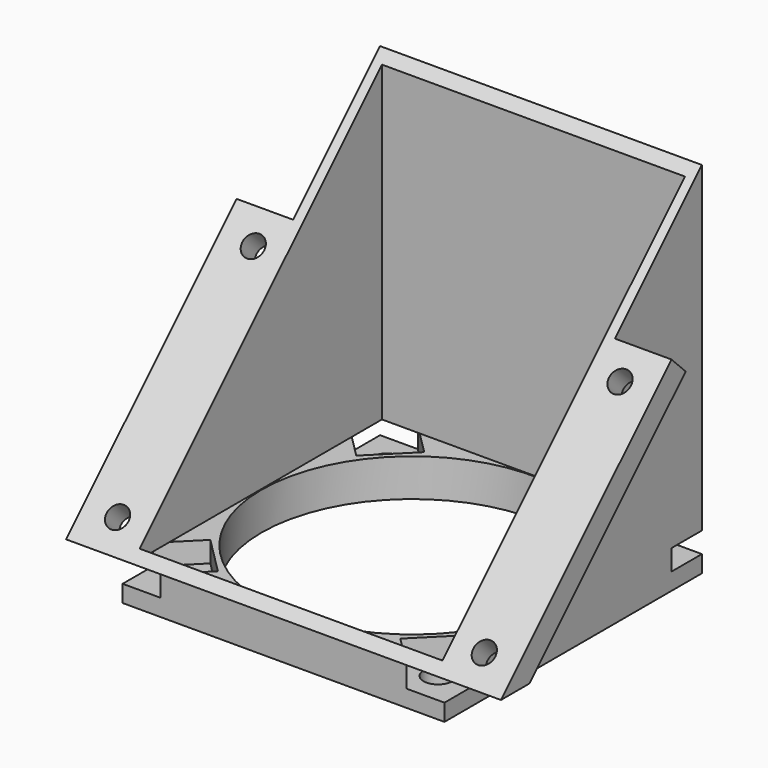
from build123d import *

# Parameters (mm, degrees)
F0_W      = 51.25
F0_H      = 51.25
F0_R      = 2.3
F0_R_2    = 24
F1_DEPTH  = 6
F3_DEPTH  = 3.3
F4_W      = 51.25
F4_H      = 51.25
F4_W_2    = 48.25
F4_H_2    = 48.25
F5_DEPTH  = 55
F7_DEPTH  = 51.251
F9_DEPTH  = 9
F11_DEPTH = 9
F12_R     = 1.75
F13_DEPTH = 40.482863


with BuildPart() as f1:
    # F0 (on Top) → F1 (new body)
    with BuildSketch(Plane.XY):
        Rectangle(F0_W, F0_H)
        with Locations((-20.5, -20.5)):
            Circle(F0_R, mode=Mode.SUBTRACT)
        with Locations((20.5, -20.5)):
            Circle(F0_R, mode=Mode.SUBTRACT)
        with Locations((-20.5, 20.5)):
            Circle(F0_R, mode=Mode.SUBTRACT)
        Circle(F0_R_2, mode=Mode.SUBTRACT)
        with Locations((20.5, 20.5)):
            Circle(F0_R, mode=Mode.SUBTRACT)
    extrude(amount=F1_DEPTH)

    # F2 (on face) → F3 (cut)
    with BuildSketch(Plane.XY.offset(6)):
        Polygon((-25.625, 25.625), (-25.625, 19.614592), (-20.535355, 14.524948), (-14.524948, 20.535355), (-19.614592, 25.625), align=None)
        Polygon((19.614592, 25.625), (14.524948, 20.535355), (20.535355, 14.524948), (25.625, 19.614592), (25.625, 25.625), align=None)
        Polygon((25.625, -25.625), (25.625, -19.614592), (20.535355, -14.524948), (14.524948, -20.535355), (19.614592, -25.625), align=None)
        Polygon((-14.524948, -20.535355), (-20.535355, -14.524948), (-25.625, -19.614592), (-25.625, -25.625), (-19.614592, -25.625), align=None)
    extrude(amount=-F3_DEPTH, mode=Mode.SUBTRACT)

    # F4 (on face) → F5 (join)
    with BuildSketch(Plane.XY.offset(6)):
        Rectangle(F4_W, F4_H)
        Rectangle(F4_W_2, F4_H_2, mode=Mode.SUBTRACT)
    extrude(amount=F5_DEPTH)

    # F6 (on face) → F7 (cut, through all)
    with BuildSketch(Plane.YZ.offset(25.625)):
        Polygon((-25.625, 61), (-25.625, 6), (25.625, 57.25), (25.625, 61), align=None)
    extrude(amount=-F7_DEPTH, mode=Mode.SUBTRACT)

    # F8 (on face) → F9 (join)
    with BuildSketch(Plane.YZ.offset(25.625)):
        Polygon((8.316125, 39.941125), (-25.625, 6), (-19.968146, 6), (11.144553, 37.112698), align=None)
    extrude(amount=F9_DEPTH)

    # F10 (on face) → F11 (join)
    with BuildSketch(Plane(origin=(-25.625, 0, 0), x_dir=(0, -1, 0), z_dir=(-1, 0, 0))):
        Polygon((19.968146, 6), (25.625, 6), (-8.316125, 39.941125), (-11.144553, 37.112698), align=None)
    extrude(amount=F11_DEPTH)

    # F12 (on face) → F13 (cut, through all)
    with BuildSketch(Plane(origin=(0, -15.8125, 15.8125), x_dir=(1, 0, 0), z_dir=(0, -0.707107, 0.707107))):
        with Locations((29.2, 29.223029)):
            Circle(F12_R)
        with Locations((29.2, -8.976971)):
            Circle(F12_R)
        with Locations((-29.2, 29.223029)):
            Circle(F12_R)
        with Locations((-29.2, -8.976971)):
            Circle(F12_R)
    extrude(amount=-F13_DEPTH, mode=Mode.SUBTRACT)


solid = f1.part
